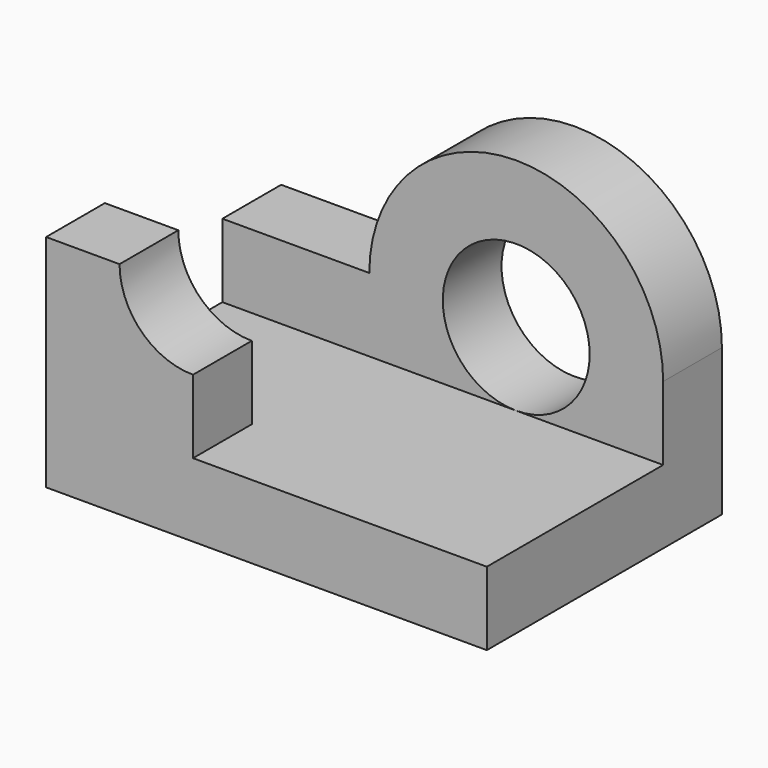
from build123d import *

# Parameters (mm, degrees)
SKETCH_W        = 60
SKETCH_H        = 40
PAD_DEPTH       = 10
SKETCH001_W     = 20
SKETCH001_H     = 20
PAD001_DEPTH    = 10
POCKET_DEPTH    = 40.001
SKETCH003_W     = 60
SKETCH003_H     = 10
PAD002_DEPTH    = 10
PAD003_DEPTH    = 10
SKETCH005_R     = 10
POCKET001_DEPTH = 10.001


with BuildPart() as part:
    # Sketch → Pad (new body)
    with BuildSketch(Plane.XY):
        Rectangle(SKETCH_W, SKETCH_H)
    extrude(amount=PAD_DEPTH)

    # Sketch001 (on Face1 of Pad) → Pad001 (join)
    with BuildSketch(Plane.XZ.offset(20)):
        with Locations((-20, 20)):
            Rectangle(SKETCH001_W, SKETCH001_H)
    extrude(amount=-PAD001_DEPTH)

    # Sketch002 (on Face8 of Pad001) → Pocket (cut, through all)
    with BuildSketch(Plane.XZ.offset(20)):
        with BuildLine():
            ThreePointArc((-20, 30), (-17.071068, 22.928932), (-10, 20))
            Line((-10, 30), (-10, 20))
            Line((-20, 30), (-10, 30))
        make_face()
    extrude(amount=-POCKET_DEPTH, mode=Mode.SUBTRACT)

    # Sketch003 (on Face5 of Pocket) → Pad002 (join)
    with BuildSketch(Plane.XY.offset(10)):
        with Locations((0, 15)):
            Rectangle(SKETCH003_W, SKETCH003_H)
    extrude(amount=PAD002_DEPTH)

    # Sketch004 (on Face8 of Pad002) → Pad003 (join)
    with BuildSketch(Plane.XZ.offset(-10)):
        with BuildLine():
            ThreePointArc((30, 20), (10, 40), (-10, 20))
            Line((-10, 20), (30, 20))
        make_face()
    extrude(amount=-PAD003_DEPTH)

    # Sketch005 (on Face13 of Pad003) → Pocket001 (cut, through all)
    with BuildSketch(Plane.XZ.offset(-10)):
        with Locations((10, 20)):
            Circle(SKETCH005_R)
    extrude(amount=-POCKET001_DEPTH, mode=Mode.SUBTRACT)


solid = part.part
